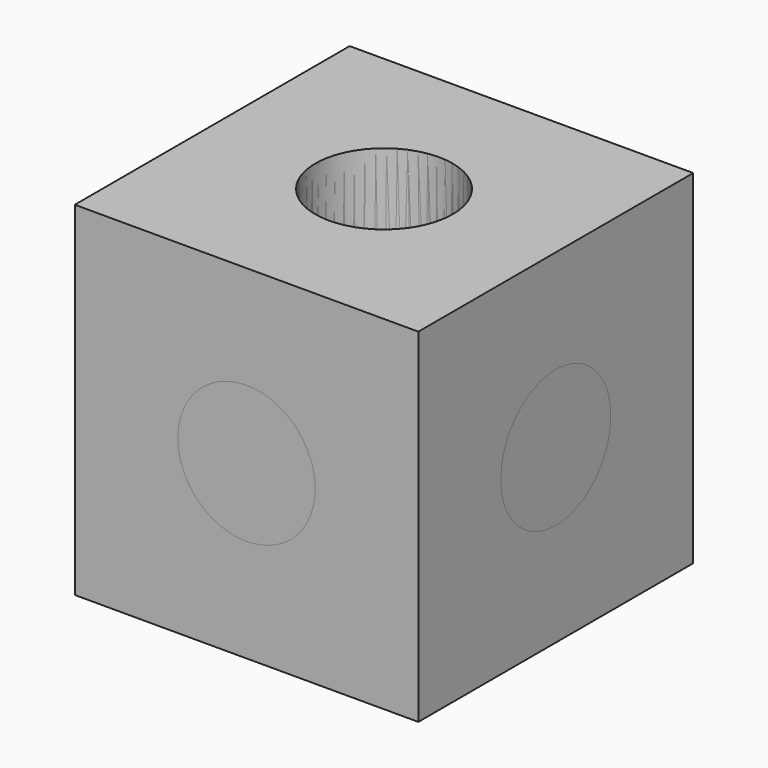
from build123d import *

# Parameters (mm, degrees)
CYLINDER1_R     = 10
CYLINDER1_DEPTH = 50
CYLINDER_R      = 10
CYLINDER_DEPTH  = 50
BOX_W           = 50
BOX_H           = 50
BOX_DEPTH       = 50
CYLINDER2_R     = 10
CYLINDER2_DEPTH = 50


with BuildPart() as cylinder1:
    # Cylinder1 → Cylinder1 (new body)
    with BuildSketch(Plane(origin=(25, 50, 25), x_dir=(1, 0, 0), z_dir=(0, -1, 0))):
        Circle(CYLINDER1_R)
    extrude(amount=CYLINDER1_DEPTH)


with BuildPart() as cylinder:
    # Cylinder → Cylinder (new body)
    with BuildSketch(Plane(origin=(25, 25, 0), x_dir=(1, 0, 0), z_dir=(0, 0, 1))):
        Circle(CYLINDER_R)
    extrude(amount=CYLINDER_DEPTH)


with BuildPart() as cut:
    # Box → Box (new body)
    with BuildSketch(Plane.XY):
        with Locations((25, 25)):
            Rectangle(BOX_W, BOX_H)
    extrude(amount=BOX_DEPTH)

    # Cut: cut Cylinder
    add(cylinder.part, mode=Mode.SUBTRACT)


with BuildPart() as fusion:
    # Fusion base: copy of Cut
    add(cut.part)

    # Fusion: union Cylinder1
    add(cylinder1.part)


with BuildPart() as cylinder2:
    # Cylinder2 → Cylinder2 (new body)
    with BuildSketch(Plane(origin=(0, 25, 25), x_dir=(0, 0, -1), z_dir=(1, 0, 0))):
        Circle(CYLINDER2_R)
    extrude(amount=CYLINDER2_DEPTH)


with BuildPart() as cut2:
    # Cut1 base: copy of Cut
    add(cut.part)

    # Cut1: cut Cylinder1
    add(cylinder1.part, mode=Mode.SUBTRACT)

    # Cut2: cut Cylinder2
    add(cylinder2.part, mode=Mode.SUBTRACT)


solid = Compound([fusion.part, cut2.part])
